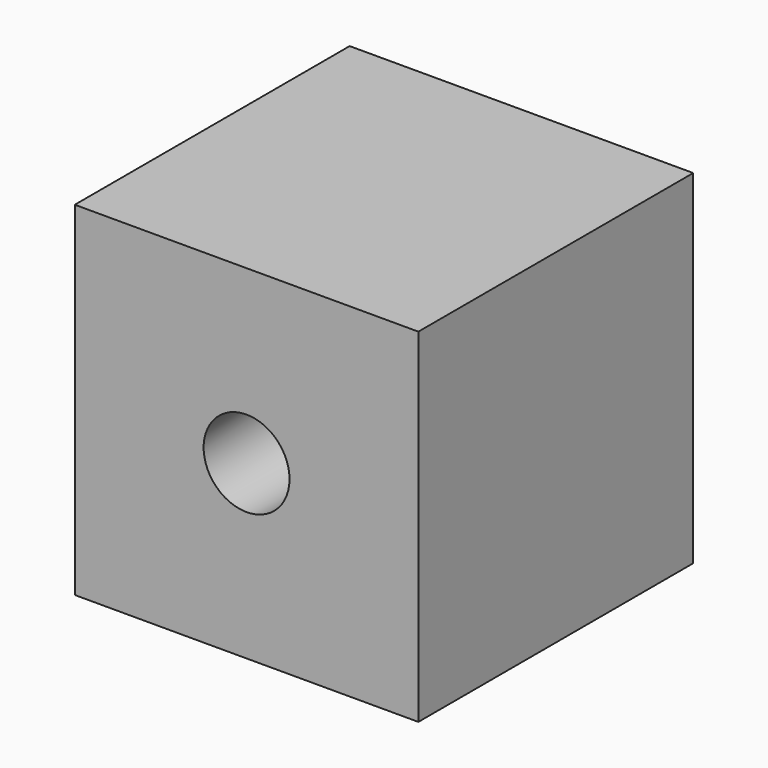
from build123d import *

# Parameters (mm, degrees)
F0_W     = 20
F0_H     = 20
F1_DEPTH = 20
F2_R     = 2.5
F3_DEPTH = 5


with BuildPart() as f1:
    # F0 (on Top) → F1 (new body)
    with BuildSketch(Plane.XY):
        Rectangle(F0_W, F0_H)
    extrude(amount=F1_DEPTH)

    # F2 (on face) → F3 (cut)
    with BuildSketch(Plane.XZ.offset(10)):
        with Locations((0, 10)):
            Circle(F2_R)
    extrude(amount=-F3_DEPTH, mode=Mode.SUBTRACT)


solid = f1.part
